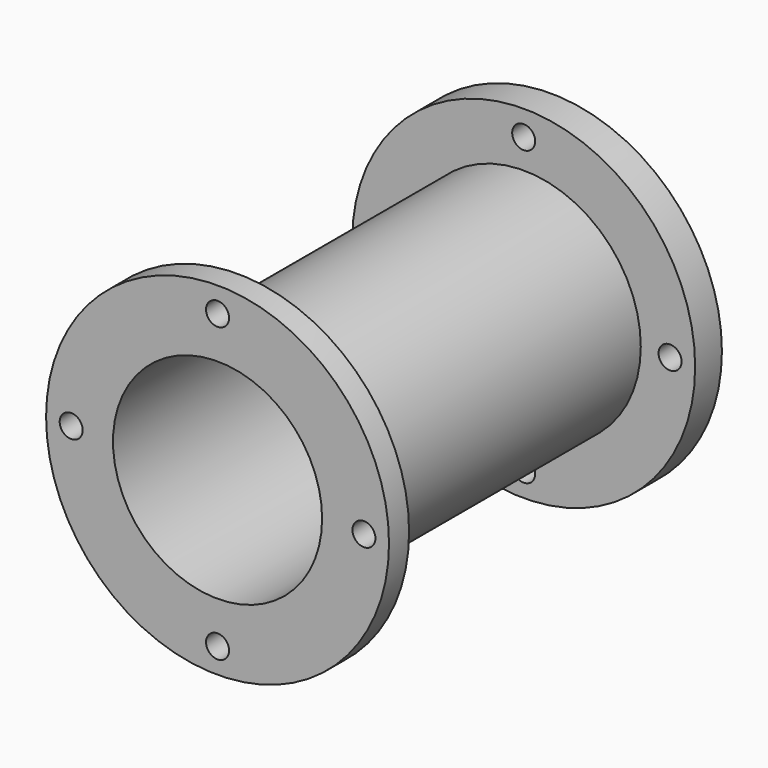
from build123d import *

# Parameters (mm, degrees)
F0_R     = 41
F1_DEPTH = 8
F2_R     = 28
F3_DEPTH = 85.5
F4_R     = 41
F4_R_2   = 28
F5_DEPTH = 6
F6_R     = 25
F7_DEPTH = 99.501
F8_R     = 2.75
F9_DEPTH = 99.501


with BuildPart() as f1:
    # F0 (on Front) → F1 (new body)
    with BuildSketch(Plane.XZ):
        Circle(F0_R)
    extrude(amount=F1_DEPTH)

    # F2 (on face) → F3 (join)
    with BuildSketch(Plane.XZ.offset(8)):
        Circle(F2_R)
    extrude(amount=F3_DEPTH)

    # F4 (on face) → F5 (join)
    with BuildSketch(Plane.XZ.offset(93.5)):
        Circle(F4_R)
        Circle(F4_R_2, mode=Mode.SUBTRACT)
        Circle(F4_R_2)
    extrude(amount=F5_DEPTH)

    # F6 (on face) → F7 (cut, through all)
    with BuildSketch(Plane.XZ.offset(99.5)):
        Circle(F6_R)
    extrude(amount=-F7_DEPTH, mode=Mode.SUBTRACT)

    # F8 (on face) → F9 (cut, through all)
    with BuildSketch(Plane.XZ.offset(99.5)):
        with Locations((-35, 0)):
            Circle(F8_R)
        with Locations((0, 35)):
            Circle(F8_R)
        with Locations((35, 0)):
            Circle(F8_R)
        with Locations((0, -35)):
            Circle(F8_R)
    extrude(amount=-F9_DEPTH, mode=Mode.SUBTRACT)


solid = f1.part
